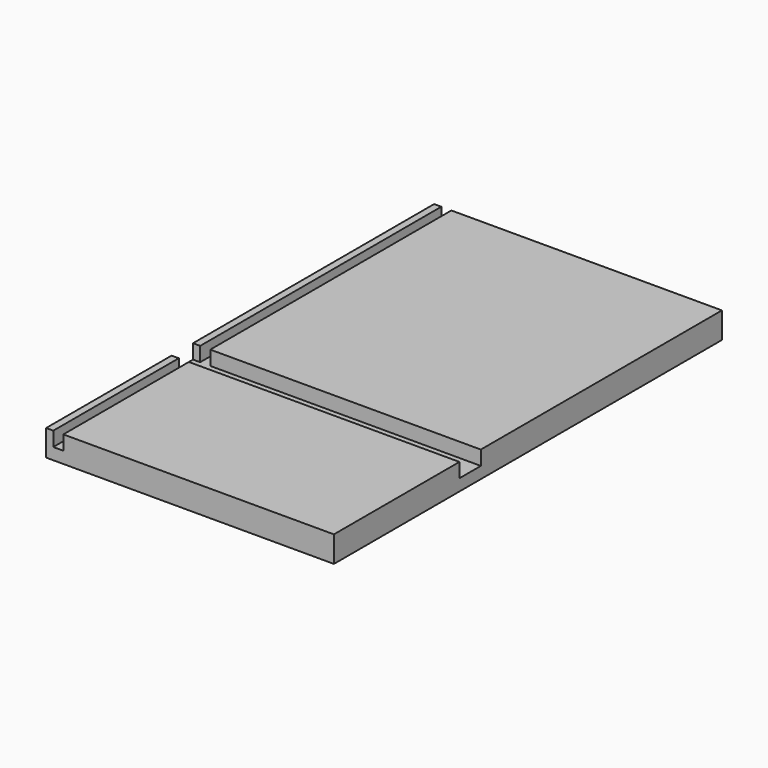
from build123d import *

# Parameters (mm, degrees)
F0_W     = 200
F0_H     = 337
F1_DEPTH = 18.1
F2_W     = 25
F2_H     = 18.6
F2_W_2   = 150
F3_DEPTH = 10
F5_DEPTH = 25
F6_W     = 7
F6_H     = 209.4
F7_DEPTH = 10
F8_W     = 7
F8_H     = 109
F9_DEPTH = 10


with BuildPart() as f1:
    # F0 (on Top) → F1 (new body)
    with BuildSketch(Plane.XY):
        Rectangle(F0_W, F0_H)
    extrude(amount=F1_DEPTH)

    # F2 (on face) → F3 (cut)
    with BuildSketch(Plane.XY.offset(18.1)):
        with Locations((-87.5, -50.2)):
            Rectangle(F2_W, F2_H)
        with Locations((-62.5, -50.2)):
            Rectangle(F2_W, F2_H)
        with Locations((25, -50.2)):
            Rectangle(F2_W_2, F2_H)
        with Locations((112.5, -50.2)):
            Rectangle(F2_W, F2_H)
        with Locations((137.5, -50.2)):
            Rectangle(F2_W, F2_H)
    extrude(amount=-F3_DEPTH, mode=Mode.SUBTRACT)

    # F4 (on face) → F5 (cut)
    with BuildSketch(Plane.XY.offset(8.1)):
        with BuildLine():
            Line((-52.5, -50.2), (-50, -50.2))
            Line((-50, -50.2), (-47.5, -50.2))
            ThreePointArc((-47.5, -50.2), (-50, -47.7), (-52.5, -50.2))
        make_face()
        with BuildLine():
            Line((-47.5, -50.2), (-50, -50.2))
            Line((-50, -50.2), (-52.5, -50.2))
            ThreePointArc((-52.5, -50.2), (-50, -52.7), (-47.5, -50.2))
        make_face()
        with BuildLine():
            ThreePointArc((52.5, -50.2), (50, -47.7), (47.5, -50.2))
            Line((47.5, -50.2), (50, -50.2))
            Line((50, -50.2), (52.5, -50.2))
        make_face()
        with BuildLine():
            Line((50, -50.2), (47.5, -50.2))
            ThreePointArc((47.5, -50.2), (50, -52.7), (52.5, -50.2))
            Line((52.5, -50.2), (50, -50.2))
        make_face()
    extrude(amount=-F5_DEPTH, mode=Mode.SUBTRACT)

    # F6 (on face) → F7 (cut)
    with BuildSketch(Plane.XY.offset(18.1)):
        with Locations((-91.5, 63.8)):
            Rectangle(F6_W, F6_H)
    extrude(amount=-F7_DEPTH, mode=Mode.SUBTRACT)

    # F8 (on face) → F9 (cut)
    with BuildSketch(Plane.XY.offset(18.1)):
        with Locations((-91.5, -114)):
            Rectangle(F8_W, F8_H)
    extrude(amount=-F9_DEPTH, mode=Mode.SUBTRACT)


solid = f1.part
